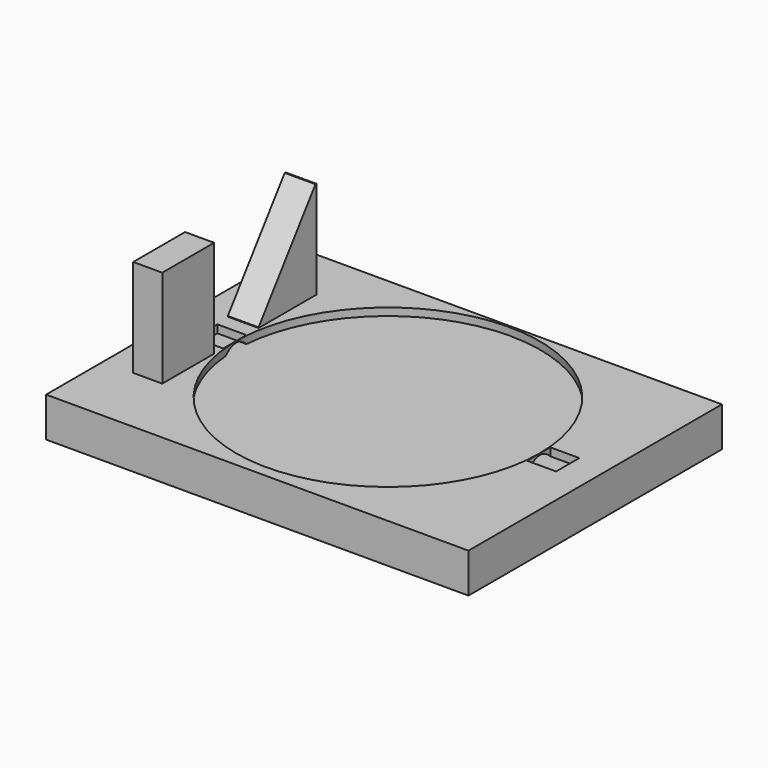
from build123d import *

# Parameters (mm, degrees)
F0_W     = 79.9999842666
F0_H     = 60
F0_W_2   = 80.0000157334
F1_DEPTH = 15
F2_R     = 57.5
F3_DEPTH = 3
F3_TAPER = -5
F4_W     = 11.6479038
F4_H     = 27.360801585
F4_W_2   = 11
F4_H_2   = 11
F4_H_3   = 24.5545655489
F5_DEPTH = 3
F6_DEPTH = 40
F9_DEPTH = 11.6479038


with BuildPart() as f1:
    # F0 (on Top) → F1 (new body)
    with BuildSketch(Plane.XY):
        with Locations((-39.9999921333, 28.1481473105)):
            Rectangle(F0_W, F0_H)
        with Locations((40.0000078667, 28.1481473105)):
            Rectangle(F0_W_2, F0_H)
        with Locations((40.0000078667, -31.8518526895)):
            Rectangle(F0_W_2, F0_H)
        with Locations((-39.9999921333, -31.8518526895)):
            Rectangle(F0_W, F0_H)
    extrude(amount=-F1_DEPTH)

    # F2 (on Top) → F3 (cut)
    with BuildSketch(Plane.XY):
        Circle(F2_R)
    extrude(amount=-F3_DEPTH, taper=F3_TAPER, mode=Mode.SUBTRACT)

    # F4 (on Top) → F5 (cut)
    with BuildSketch(Plane.XY):
        with Locations((-63.3739519, 24.3791765533)):
            Rectangle(F4_W, F4_H)
        with Locations((-63.05, -0.5552865867)):
            Rectangle(F4_W_2, F4_H_2)
        with Locations((-63.05, -22.6252786815)):
            Rectangle(F4_W_2, F4_H_3)
        with Locations((63.05, -0.5552865867)):
            Rectangle(F4_W_2, F4_H_2)
    extrude(amount=-F5_DEPTH, mode=Mode.SUBTRACT)

    # F6 (add): faces of the model
    f6_faces = [f1.faces().sort_by_distance(p)[0] for p in [
        (-63.3739519, 24.3791765533, -3),
        (-63.05, -22.6252786815, -3),
    ]]
    extrude(f6_faces, amount=F6_DEPTH)

    # F8 (on offset) → F9 (cut, through all)
    with BuildSketch(Plane.YZ.offset(-57.55)):
        Polygon((37.8841944039, 37.358019501), (10.5233872309, 37.358019501), (10.5233872309, 0), align=None)
    extrude(amount=-F9_DEPTH, mode=Mode.SUBTRACT)


solid = f1.part
